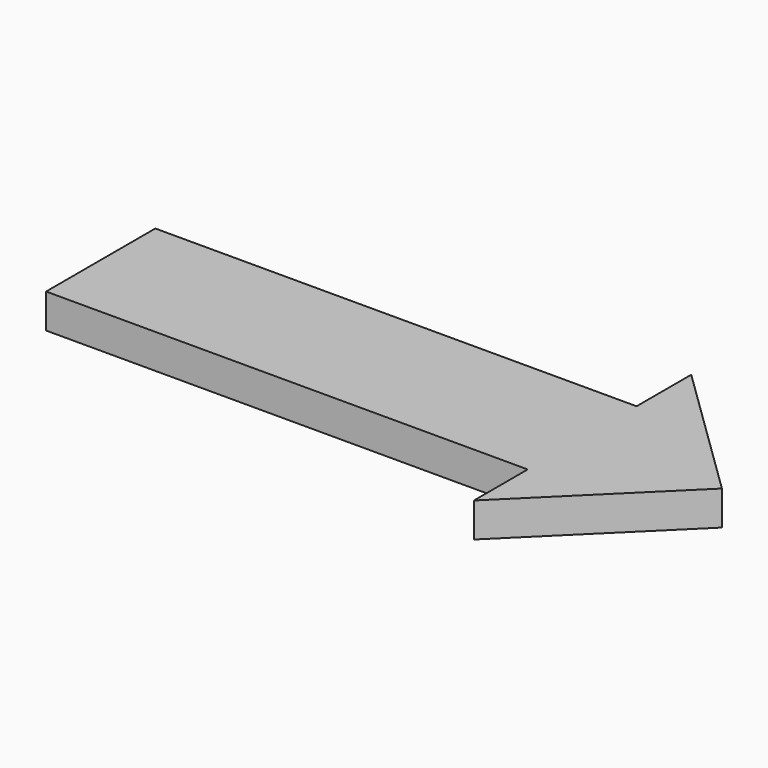
from build123d import *

# Parameters (mm, degrees)
PAD_DEPTH = 5


with BuildPart() as part:
    # Sketch → Pad (new body)
    with BuildSketch(Plane.XY):
        Polygon((-30.032932, 9.748066), (-30.032932, -10.113269), (40.033443, -10.113269), (40.033443, -19.899103), (60.198105, 0), (39.982521, 19.689732), (39.982521, 9.748066), align=None)
    extrude(amount=PAD_DEPTH)


solid = part.part
